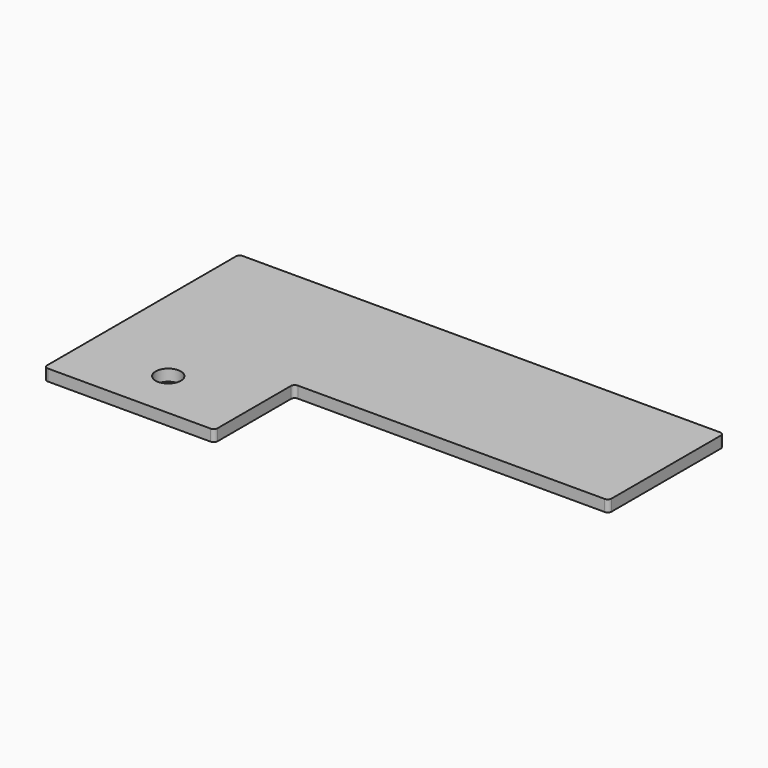
from build123d import *

# Parameters (mm, degrees)
SKETCH_R  = 3.302
PAD_DEPTH = 3


with BuildPart() as part:
    # Sketch → Pad (new body)
    with BuildSketch(Plane.XY):
        with BuildLine():
            Line((0, 62.5), (0, 1))
            ThreePointArc((0, 1), (0.292893, 0.292893), (1, 0))
            Line((1, 0), (43.41875, 0))
            ThreePointArc((43.41875, 0), (44.125857, 0.292893), (44.41875, 1))
            Line((44.41875, 1), (44.41875, 24.9))
            ThreePointArc((45.41875, 25.9), (44.711643, 25.607107), (44.41875, 24.9))
            Line((45.41875, 25.9), (125.41865, 25.9))
            ThreePointArc((125.41865, 25.9), (126.125757, 26.192893), (126.41865, 26.9))
            Line((126.41865, 26.9), (126.41865, 62.5))
            ThreePointArc((126.41865, 62.5), (126.125757, 63.207107), (125.41865, 63.5))
            Line((125.41865, 63.5), (1, 63.5))
            ThreePointArc((1, 63.5), (0.292893, 63.207107), (0, 62.5))
        make_face()
        with Locations((22.209375, 12.7)):
            Circle(SKETCH_R, mode=Mode.SUBTRACT)
    extrude(amount=PAD_DEPTH)


solid = part.part
